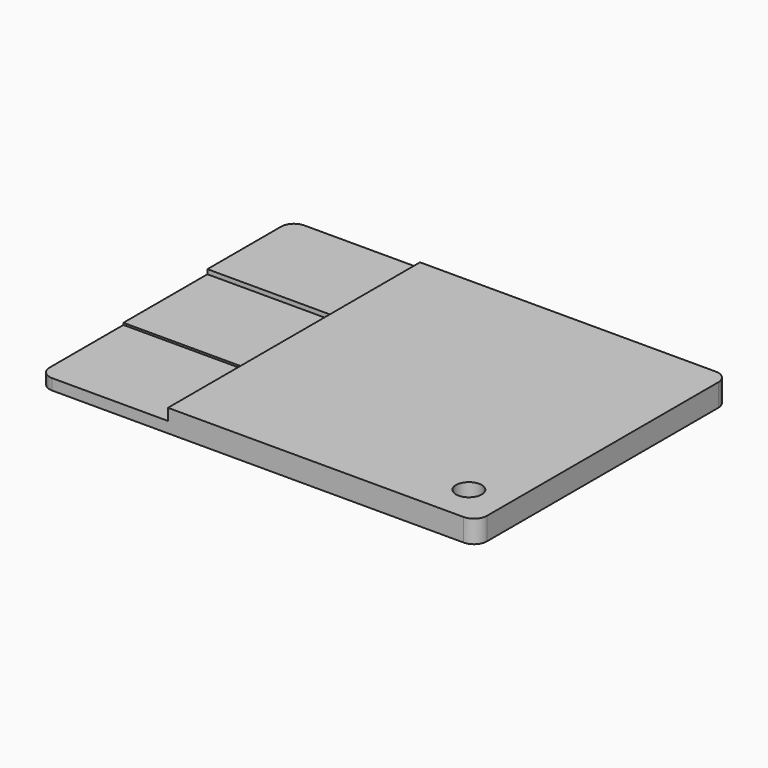
from build123d import *

# Parameters (mm, degrees)
F0_W     = 68
F0_H     = 49
F1_DEPTH = 3.5
F3_DEPTH = 20
F4_R     = 2
F5_DEPTH = 3.501
F6_R     = 2


with BuildPart() as f1:
    # F0 (on Top) → F1 (new body)
    with BuildSketch(Plane.XY):
        Rectangle(F0_W, F0_H)
    extrude(amount=F1_DEPTH)

    # F2 (on face) → F3 (cut)
    with BuildSketch(Plane(origin=(-34, 0, 0), x_dir=(0, -1, 0), z_dir=(-1, 0, 0))):
        Polygon((24.5, 3.5), (-24.5, 3.5), (-24.5, 2.7), (-8.166667, 2.7), (-8.166667, 2), (8.166667, 2), (8.166667, 1.7), (24.5, 1.7), align=None)
    extrude(amount=-F3_DEPTH, mode=Mode.SUBTRACT)

    # F4 (on Top) → F5 (cut, through all)
    with BuildSketch(Plane.XY):
        with Locations((28, -18.5)):
            Circle(F4_R)
    extrude(amount=F5_DEPTH, mode=Mode.SUBTRACT)

    # F6
    f6_edges = [f1.edges().sort_by_distance(p)[0] for p in [
        (34, 24.5, 1.75),
        (34, -24.5, 1.75),
        (-34, 24.5, 1.35),
        (-34, -24.5, 0.85),
    ]]
    fillet(f6_edges, radius=F6_R)


solid = f1.part
